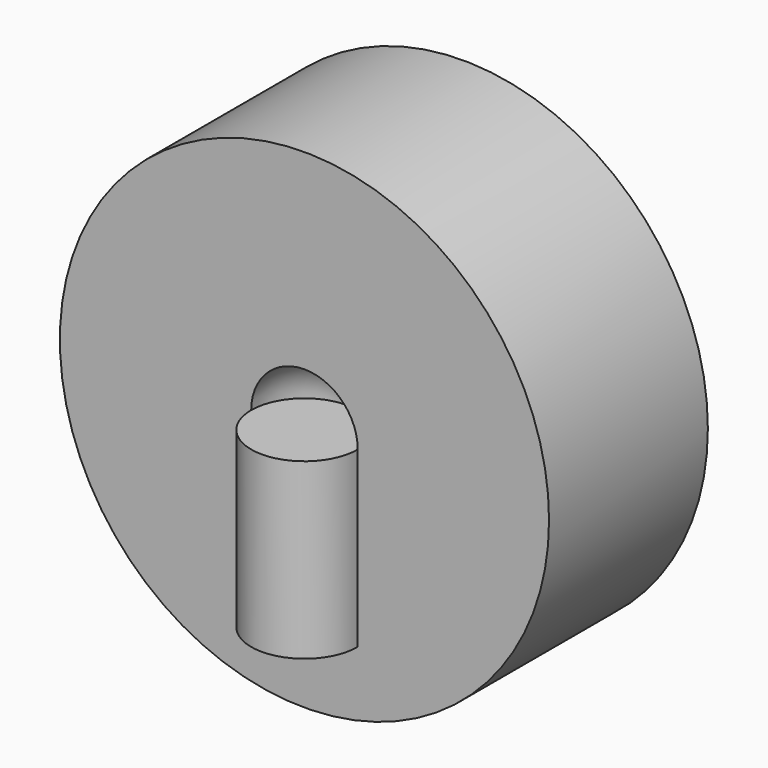
from build123d import *

# Parameters (mm, degrees)
F0_R     = 38.9202329199
F1_DEPTH = 127


with BuildPart() as f1:
    # F0 (on Top) → F1 (new body)
    with BuildSketch(Plane.XY):
        Circle(F0_R)
    extrude(amount=F1_DEPTH)

    # F2 (on face) → F3 (revolve)
    with BuildSketch(Plane.XY.offset(127)):
        with BuildLine():
            ThreePointArc((0, 38.9202329199), (27.520760623, 27.520760623), (38.9202329199, 0))
            Line((38.9202329199, 0), (178.7037104368, 0))
            Line((178.7037104368, 0), (178.7037104368, 145.0435370207))
            Line((178.7037104368, 145.0435370207), (0, 145.0435370207))
            Line((0, 145.0435370207), (0, 38.9202329199))
        make_face()
    revolve(axis=Axis((0, 108.697719872, 127), (0, -1, 0)))


solid = f1.part
